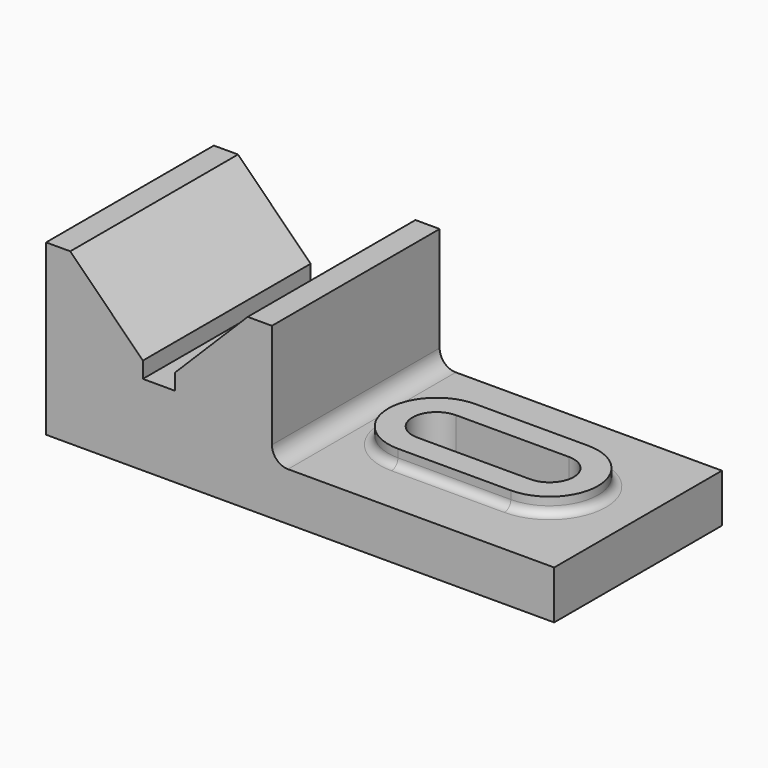
from build123d import *

# Parameters (mm, degrees)
F1_DEPTH = 32.5
F3_DEPTH = 2.5
F4_DEPTH = 25
F5_R     = 2.5
F6_R     = 1.25


with BuildPart() as f1:
    # F0 (on Front) → F1 (new body)
    with BuildSketch(Plane.XZ):
        Polygon((-57.07207, 38.769209), (-60.82207, 38.769209), (-60.82207, 12.519209), (17.92793, 12.519209), (17.92793, 20.019209), (-25.82207, 20.019209), (-25.82207, 38.769209), (-29.57207, 38.769209), (-40.82207, 27.519209), (-40.82207, 25.019209), (-45.82207, 25.019209), (-45.82207, 27.519209), align=None)
    extrude(amount=F1_DEPTH)

    # F2 (on face) → F3 (join)
    with BuildSketch(Plane.XY.offset(20.019209)):
        with BuildLine():
            Line((4.214367, -8.75), (-13.285633, -8.75))
            ThreePointArc((-13.285633, -8.75), (-20.785633, -16.25), (-13.285633, -23.75))
            Line((-13.285633, -23.75), (4.214367, -23.75))
            ThreePointArc((4.214367, -23.75), (11.714367, -16.25), (4.214367, -8.75))
        make_face()
        with BuildLine():
            ThreePointArc((-13.285633, -20), (-17.035633, -16.25), (-13.285633, -12.5))
            Line((-13.285633, -12.5), (4.214367, -12.5))
            ThreePointArc((4.214367, -12.5), (7.964367, -16.25), (4.214367, -20))
            Line((4.214367, -20), (-13.285633, -20))
        make_face(mode=Mode.SUBTRACT)
    extrude(amount=F3_DEPTH)

    # F3_face (on face) → F4 (cut)
    with BuildSketch(Plane(origin=(-4.535633, -16.25, 20.019209), x_dir=(1, 0, 0), z_dir=(0, 0, 1))):
        with BuildLine():
            Line((8.75, 3.75), (-8.75, 3.75))
            ThreePointArc((-8.75, 3.75), (-12.5, 0), (-8.75, -3.75))
            Line((-8.75, -3.75), (8.75, -3.75))
            ThreePointArc((8.75, -3.75), (12.5, 0), (8.75, 3.75))
        make_face()
    extrude(amount=-F4_DEPTH, mode=Mode.SUBTRACT)

    # F5
    f5_edges = [f1.edges().sort_by_distance(p)[0] for p in [
        (-25.82207, -16.25, 20.019209),
    ]]
    fillet(f5_edges, radius=F5_R)

    # F6
    f6_edges = [f1.edges().sort_by_distance(p)[0] for p in [
        (-4.535633, -23.75, 20.019209),
    ]]
    fillet(f6_edges, radius=F6_R)


solid = f1.part
